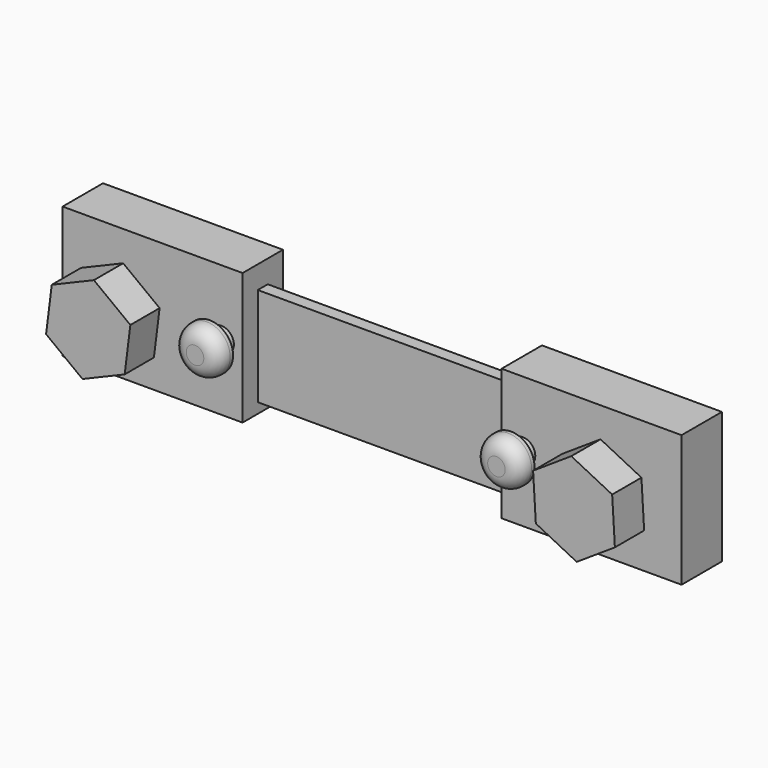
from build123d import *

# Parameters (mm, degrees)
F0_W      = 107.442
F0_H      = 22.86
F1_DEPTH  = 8.763
F2_W      = 44.958
F2_H      = 6.7985991507
F3_DEPTH  = 25.4
F4_W      = 44.958
F4_H      = 17.145
F5_DEPTH  = 3.302
F6_W      = 44.958
F6_H      = 17.145
F7_DEPTH  = 3.302
F8_R      = 2.1717
F8_R_2    = 3.81
F9_DEPTH  = 2.54
F10_R     = 4.064
F11_DEPTH = 3.175
F12_R     = 2.54
F14_DEPTH = 6.35
F16_DEPTH = 4.445


with BuildPart() as f1:
    # F0 (on Front) → F1 (new body)
    with BuildSketch(Plane.XZ):
        Rectangle(F0_W, F0_H)
    extrude(amount=F1_DEPTH)

    # F2 (on face) → F3 (cut)
    with BuildSketch(Plane.XZ.offset(8.763)):
        with Locations((0, 10.8926433936)):
            Rectangle(F2_W, F2_H)
        with Locations((0, -13.0509557571)):
            Rectangle(F2_W, F2_H)
    extrude(amount=-F3_DEPTH, mode=Mode.SUBTRACT)

    # F4 (on face) → F5 (cut)
    with BuildSketch(Plane.XZ.offset(8.763)):
        with Locations((0, -1.0791561817)):
            Rectangle(F4_W, F4_H)
    extrude(amount=-F5_DEPTH, mode=Mode.SUBTRACT)

    # F6 (on face) → F7 (cut)
    with BuildSketch(Plane(origin=(0, 0, 0), x_dir=(-1, 0, 0), z_dir=(0, 1, 0))):
        with Locations((0, -1.0791561817)):
            Rectangle(F6_W, F6_H)
    extrude(amount=-F7_DEPTH, mode=Mode.SUBTRACT)

    # F8 (on face) → F9 (join)
    with BuildSketch(Plane.XZ.offset(8.763)):
        with Locations((-26.162, 0)):
            Circle(F8_R)
        with Locations((26.162, 0)):
            Circle(F8_R)
        with Locations((42.164, 0)):
            Circle(F8_R_2)
        with Locations((-42.164, 0)):
            Circle(F8_R_2)
    extrude(amount=F9_DEPTH)

    # F10 (on face) → F11 (join)
    with BuildSketch(Plane.XZ.offset(11.303)):
        with Locations((-26.162, 0)):
            Circle(F10_R)
        with Locations((26.162, 0)):
            Circle(F10_R)
    extrude(amount=F11_DEPTH)

    # F12
    f12_edges = [f1.edges().sort_by_distance(p)[0] for p in [
        (-30.226, -14.478, 0),
        (22.098, -14.478, 0),
    ]]
    fillet(f12_edges, radius=F12_R)

    # F13 (on face) → F14 (join)
    with BuildSketch(Plane.XZ.offset(11.303)):
        Polygon((-34.8496852361, 3.0829702859), (-41.1767732048, 7.8758675398), (-48.4910879687, 4.7928972539), (-49.4783147639, -3.0829702859), (-43.1512267952, -7.8758675398), (-35.8369120313, -4.7928972539), align=None)
        Polygon((48.7893377385, 4.3713620418), (41.6909582919, 7.9233918111), (35.0656205534, 3.5520297693), (35.5386622615, -4.3713620418), (42.6370417081, -7.9233918111), (49.2623794466, -3.5520297693), align=None)
    extrude(amount=F14_DEPTH)

    # F15 (on face) → F16 (join)
    with BuildSketch(Plane(origin=(0, 0, 0), x_dir=(-1, 0, 0), z_dir=(0, 1, 0))):
        Polygon((-35.2800293387, 3.1163504593), (-41.4208533342, 7.5198687012), (-48.3048239954, 4.4035182419), (-49.0479706613, -3.1163504593), (-42.9071466658, -7.5198687012), (-36.0231760046, -4.4035182419), align=None)
        Polygon((49.2749888468, 2.5562726518), (43.5056973679, 7.4364333133), (36.3947085211, 4.8801606615), (35.0530111532, -2.5562726518), (40.8223026321, -7.4364333133), (47.9332914789, -4.8801606615), align=None)
    extrude(amount=F16_DEPTH)


solid = f1.part
